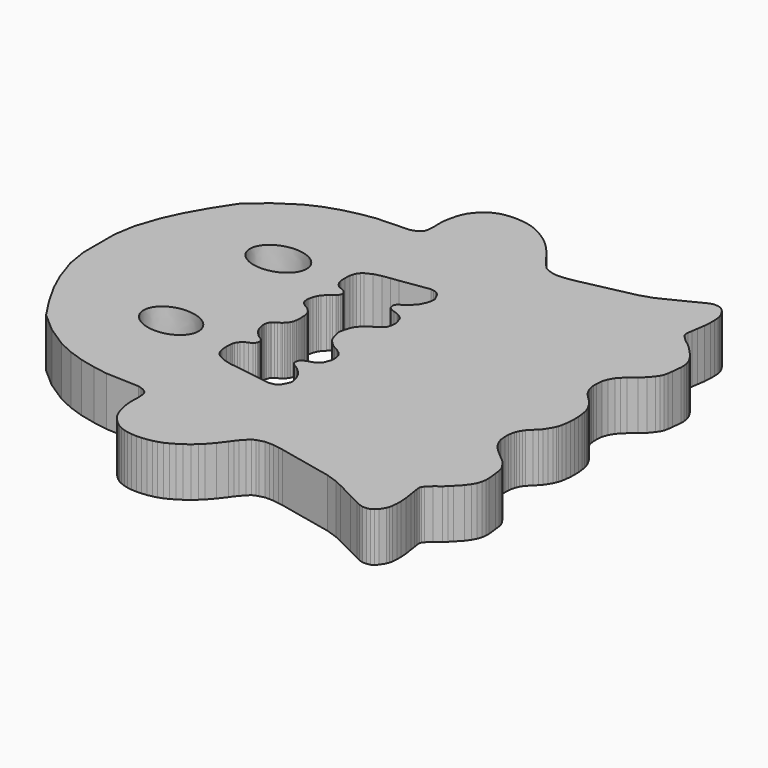
from build123d import *

# Parameters (mm, degrees)
PAD001_DEPTH           = 5
POCKET_DEPTH           = 5
FUSION_PLACEMENT_ANGLE = 90


with BuildPart() as ghost_half:
    # Sketch001 → Pad001 (new body)
    with BuildSketch(Plane.XY):
        Polygon((0, 22.764011), (-1.991024, 22.764011), (-4.072609, 22.423883), (-6.392699, 21.646685), (-8.174972, 20.830376), (-10.256557, 19.660334), (-12.283722, 18.340635), (-13.962386, 16.417843), (-15.363714, 14.281837), (-16.045235, 12.806446), (-16.562231, 11.28267), (-16.915964, 9.731685), (-17.160856, 8.275936), (-17.28462, 4.907293), (-17.391754, 4.556898), (-17.49576, 4.285144), (-17.616539, 4.097265), (-17.760803, 3.919451), (-17.975523, 3.815446), (-18.243921, 3.744991), (-18.581081, 3.717989), (-18.864006, 3.704255), (-19.303497, 3.723483), (-19.712776, 3.723483), (-20.141281, 3.701508), (-20.512102, 3.649318), (-20.991817, 3.544523), (-21.39835, 3.448384), (-21.920246, 3.256106), (-22.310297, 3.061081), (-22.715755, 2.774584), (-23.061855, 2.442217), (-23.356295, 2.114359), (-23.581535, 1.812208), (-23.746666, 1.478979), (-23.925211, 1.023005), (-24.018953, 0.620725), (-24.08213, 0.162005), (-24.109056, -0.371894), (-24.088568, -0.826749), (-24.038828, -1.361014), (-23.94458, -1.836358), (-23.829697, -2.277041), (-23.661688, -2.752384), (-23.444506, -3.199043), (-23.17815, -3.653898), (-22.874083, -4.127404), (-22.521673, -4.619139), (-22.115992, -5.057602), (-21.751287, -5.446892), (-21.04105, -6.067547), (-20.270664, -6.653531), (-19.884306, -6.929724), (-19.560581, -7.187885), (-19.146704, -7.568979), (-18.846426, -7.865444), (-18.686613, -8.217854), (-18.621048, -8.435037), (-18.481724, -8.967749), (-18.481724, -9.402534), (-18.49752, -9.827579), (-18.578604, -10.400024), (-18.664062, -10.888039), (-19.87044, -16.456078), (-20.276369, -17.65357), (-20.601112, -18.343651), (-21.464169, -20.067999), (-22.016703, -21.165598), (-22.233234, -21.591198), (-22.375101, -22.001863), (-22.375101, -22.443943), (-22.299566, -22.799572), (-22.125107, -23.037775), (-21.880194, -23.299465), (-21.342072, -23.632797), (-21.060253, -23.733446), (-20.765013, -23.797192), (-20.261766, -23.840807), (-19.718258, -23.840807), (-19.052479, -23.797239), (-18.270767, -23.67646), (-17.676933, -23.592585), (-17.282684, -23.528454), (-16.974026, -23.504969), (-16.762661, -23.578779), (-16.591557, -23.716333), (-16.097162, -24.21394), (-15.647593, -24.801064), (-15.341551, -25.140907), (-15.042957, -25.429436), (-14.394145, -26.041481), (-13.900962, -26.387043), (-13.510436, -26.606781), (-13.040738, -26.764465), (-12.63143, -26.828211), (-12.232186, -26.828211), (-11.276015, -26.724207), (-10.790769, -26.663414), (-10.41501, -26.57954), (-10.096287, -26.431921), (-9.780918, -26.213846), (-9.243209, -25.780401), (-8.770156, -25.223473), (-8.198551, -24.567181), (-7.839568, -24.184713), (-7.514134, -23.896185), (-6.975449, -23.579056), (-6.450581, -23.398741), (-5.834061, -23.347702), (-5.421397, -23.347702), (-5.122802, -23.394672), (-4.820852, -23.468483), (-4.614622, -23.542339), (-4.373063, -23.6497), (-4.154988, -23.783899), (-3.953688, -23.93152), (-3.523346, -24.344854), (-3.20417, -24.670557), (-2.948911, -24.900791), (-2.584215, -25.143814), (-2.238113, -25.34708), (-1.96228, -25.476761), (-1.770001, -25.54818), (-1.448621, -25.636078), (-1.050329, -25.707495), (-0.48349, -25.759991), (0, -25.779219), align=None)
    extrude(amount=PAD001_DEPTH)

    # Sketch002 (on Face129 of Pad001) → Pocket (cut)
    with BuildSketch(Plane.XY.offset(5)):
        with BuildLine():
            add(Edge.make_bspline(
                [(-6.717892, 12.787997), (-10.407339, 12.948408), (-8.748542, 8.591897), (-7.089745, 4.235387), (-5.059095, 8.431487), (-3.028445, 12.627586), (-6.717892, 12.787997)],
                knots=[0, 0, 0, 2.094395, 2.094395, 4.18879, 4.18879, 6.283185, 6.283185, 6.283185], degree=2, weights=[1, 0.5, 1, 0.5, 1, 0.5, 1]))
        make_face()
        Polygon((0, 2.159598), (-0.250505, 2.171891), (-0.510897, 2.186371), (-0.770086, 2.2271), (-0.944502, 2.288924), (-1.09261, 2.359275), (-1.192582, 2.41605), (-1.287618, 2.483932), (-1.382042, 2.570898), (-1.473375, 2.669636), (-1.563474, 2.768375), (-1.656041, 2.886861), (-1.784845, 3.108625), (-1.921845, 3.301165), (-2.061313, 3.491237), (-2.142772, 3.575165), (-2.21806, 3.633173), (-2.427383, 3.7165), (-2.600175, 3.753527), (-2.734706, 3.764635), (-2.851958, 3.764635), (-2.969523, 3.751153), (-3.092946, 3.722765), (-3.407675, 3.645009), (-3.682365, 3.537471), (-3.842815, 3.451074), (-4.024247, 3.332588), (-4.360361, 3.014893), (-4.532323, 2.843311), (-4.661211, 2.683122), (-4.80667, 2.421663), (-4.874796, 2.355378), (-4.976065, 2.283569), (-5.103112, 2.228332), (-5.241206, 2.1823), (-5.353523, 2.1823), (-5.458474, 2.200713), (-5.614173, 2.294537), (-5.766998, 2.43079), (-5.929029, 2.745645), (-6.081852, 3.112055), (-6.284411, 3.334256), (-6.449702, 3.460924), (-6.692222, 3.599363), (-6.860976, 3.652919), (-7.005478, 3.682224), (-7.536805, 3.705796), (-8.152258, 3.669477), (-8.444616, 3.590765), (-8.757215, 3.469324), (-8.984356, 3.27142), (-9.175514, 3.051026), (-9.493396, 2.395101), (-9.693781, 1.652133), (-9.804857, 0.869925), (-9.904958, 0.094142), (-10.341232, -2.831693), (-10.301275, -3.117043), (-10.245498, -3.37181), (-10.127913, -3.554216), (-9.992239, -3.742653), (-9.792948, -3.872962), (-9.563809, -3.989039), (-9.179399, -4.157878), (-9.035489, -4.168626), (-8.85459, -4.158074), (-8.495066, -4.077919), (-8.270282, -4.007464), (-7.696579, -3.729001), (-7.32082, -3.373372), (-6.93727, -2.95221), (-6.66216, -2.509352), (-6.516994, -2.347346), (-6.377059, -2.257125), (-6.250012, -2.233188), (-6.110077, -2.238712), (-5.966459, -2.273696), (-5.854142, -2.316045), (-5.719256, -2.445336), (-5.616146, -2.605525), (-5.491065, -2.966283), (-5.378003, -3.340141), (-5.287215, -3.521866), (-5.178675, -3.690705), (-5.056089, -3.854174), (-4.912878, -4.006431), (-4.731727, -4.101757), (-4.532738, -4.169594), (-4.15285, -4.311298), (-3.954732, -4.327994), (-3.755743, -4.327994), (-3.472334, -4.278247), (-3.270859, -4.227129), (-3.089567, -4.166698), (-2.820378, -3.938711), (-2.526467, -3.537674), (-2.311611, -3.135623), (-2.111092, -2.822485), (-1.918814, -2.619219), (-1.637498, -2.340103), (-1.469942, -2.186281), (-1.274917, -2.087395), (-1.05517, -1.991256), (-0.629411, -1.853914), (-0.229856, -1.751755), (-0.064108, -1.738071), (0, -1.735602), align=None)
    extrude(amount=-POCKET_DEPTH, mode=Mode.SUBTRACT)


with BuildPart() as ghost_half_1:
    # Body001 placement: moved
    add(ghost_half.part.moved(Location((0, 0, -5))))


with BuildPart() as obj1:
    # Part__Mirroring: instance of Ghost_half
    add(ghost_half_1.part.mirror(Plane(origin=(0, 0, 0), x_dir=(0, -1, 0), z_dir=(1, 0, 0))))

    # Fusion: union Ghost_half
    add(ghost_half_1.part)


with BuildPart() as obj1_1:
    # Fusion placement: moved
    add(obj1.part.moved(Location((-2, 0, 0))).rotate(Axis((-2, 0, 0), (0, 0, 1)), FUSION_PLACEMENT_ANGLE))


solid = obj1_1.part
